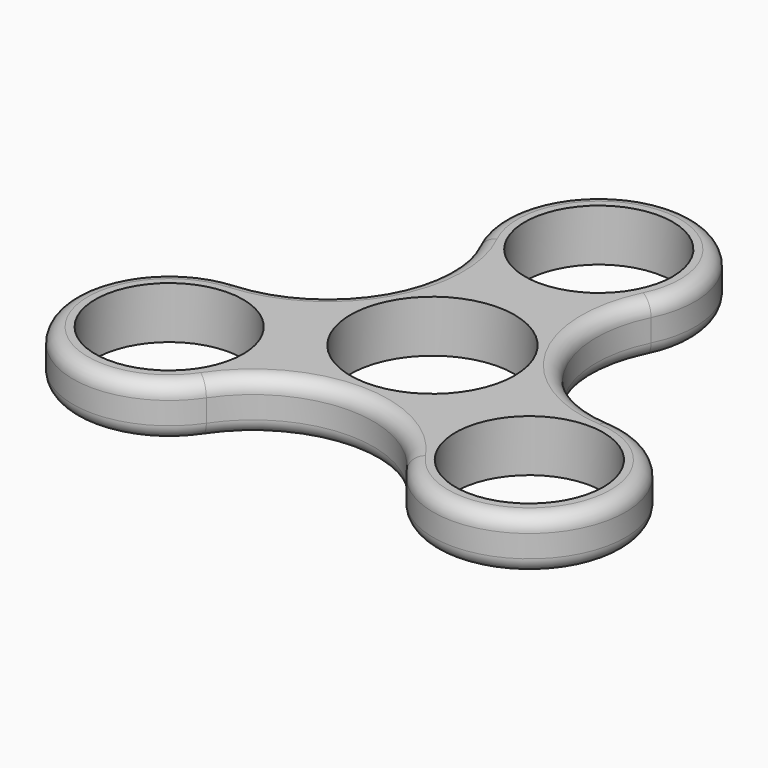
from build123d import *

# Parameters (mm, degrees)
F0_R     = 9.95
F0_R_2   = 11.06
F1_DEPTH = 7
F2_R     = 2


with BuildPart() as f1:
    # F0 (on Top) → F1 (new body)
    with BuildSketch(Plane.XY):
        with BuildLine():
            ThreePointArc((25.104973, -1.078339), (12.124356, 7), (11.618617, 22.280714))
            ThreePointArc((11.618617, 22.280714), (0, 40.95), (-11.618617, 22.280714))
            ThreePointArc((-11.618617, 22.280714), (-12.124356, 7), (-25.104973, -1.078339))
            ThreePointArc((-25.104973, -1.078339), (-35.46374, -20.475), (-13.486356, -21.202375))
            ThreePointArc((-13.486356, -21.202375), (0, -14), (13.486356, -21.202375))
            ThreePointArc((13.486356, -21.202375), (35.46374, -20.475), (25.104973, -1.078339))
        make_face()
        with Locations((-24.248711, -14)):
            Circle(F0_R, mode=Mode.SUBTRACT)
        with Locations((24.248711, -14)):
            Circle(F0_R, mode=Mode.SUBTRACT)
        Circle(F0_R_2, mode=Mode.SUBTRACT)
        with Locations((0, 28)):
            Circle(F0_R, mode=Mode.SUBTRACT)
    extrude(amount=F1_DEPTH)

    # F2
    f2_edges = [f1.edges().sort_by_distance(p)[0] for p in [
        (0, -14, 7),
        (0, -14, 0),
    ]]
    fillet(f2_edges, radius=F2_R)


solid = f1.part
